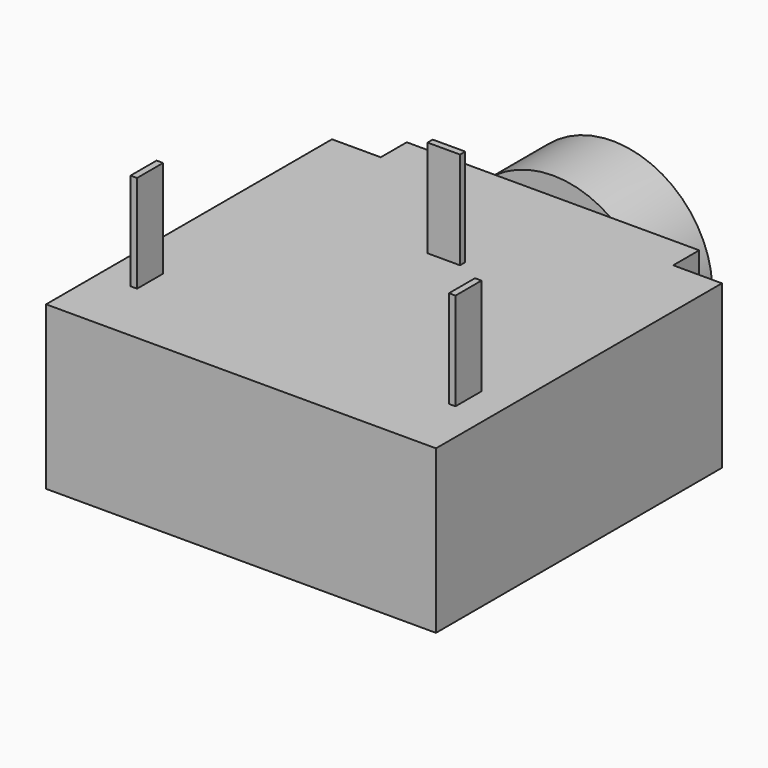
from build123d import *

# Parameters (mm, degrees)
F1_DEPTH = 5
F2_R     = 3.065
F3_DEPTH = 2.3
F4_R     = 1.75
F5_DEPTH = 8
F6_W     = 0.2
F6_H     = 1
F6_W_2   = 1
F6_H_2   = 0.2
F7_DEPTH = 3


with BuildPart() as f1:
    # F0 (on Top) → F1 (new body)
    with BuildSketch(Plane.XY):
        Polygon((6, -5.5), (6, 5.5), (4.5, 5.5), (4.5, 6.5), (-4.5, 6.5), (-4.5, 5.5), (-6, 5.5), (-6, -5.5), align=None)
    extrude(amount=F1_DEPTH)

    # F2 (on face) → F3 (join)
    with BuildSketch(Plane(origin=(0, 6.5, 0), x_dir=(-1, 0, 0), z_dir=(0, 1, 0))):
        with Locations((0, 2.5)):
            Circle(F2_R)
    extrude(amount=F3_DEPTH)

    # F4 (on face) → F5 (cut)
    with BuildSketch(Plane(origin=(0, 8.8, 0), x_dir=(-1, 0, 0), z_dir=(0, 1, 0))):
        with Locations((0, 2.5)):
            Circle(F4_R)
    extrude(amount=-F5_DEPTH, mode=Mode.SUBTRACT)

    # F6 (on face) → F7 (join)
    with BuildSketch(Plane.XY.offset(5)):
        with Locations((4.9, -3)):
            Rectangle(F6_W, F6_H)
        with Locations((-4.9, -3)):
            Rectangle(F6_W, F6_H)
        with Locations((0, 2.4)):
            Rectangle(F6_W_2, F6_H_2)
    extrude(amount=F7_DEPTH)


solid = f1.part
